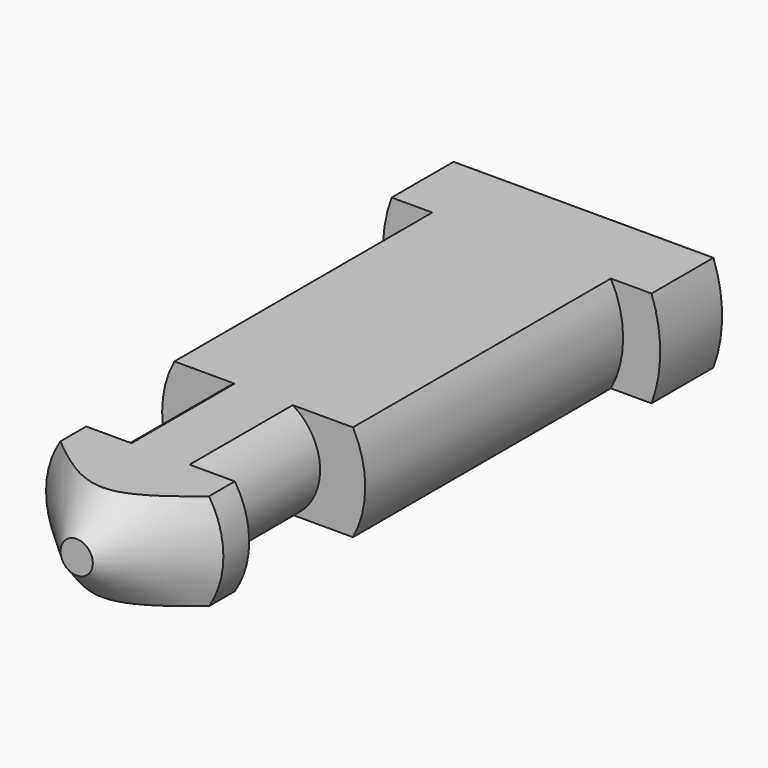
from build123d import *

# Parameters (mm, degrees)
F2_W     = 15
F2_H     = 3
F3_DEPTH = 25


with BuildPart() as f1:
    # F0 (on Top) → F1 (revolve)
    with BuildSketch(Plane.XY):
        Polygon((0, 19.65), (0, 0), (0.5, 0), (2.75, 2.25), (2.75, 3.25), (1.75, 3.25), (1.75, 7.25), (3.15, 7.25), (3.15, 17.25), (4.3, 17.25), (4.3, 19.65), align=None)
    revolve(axis=Axis((0, 9.825, 0), (0, 1, 0)))


with BuildPart() as f3:
    # F2 (on face) → F3 (new body)
    with BuildSketch(Plane(origin=(0, 19.65, 0), x_dir=(-1, 0, 0), z_dir=(0, 1, 0))):
        Rectangle(F2_W, F2_H)
    extrude(amount=-F3_DEPTH)

    # F4: intersect F1
    add(f1.part, mode=Mode.INTERSECT)


solid = f3.part
